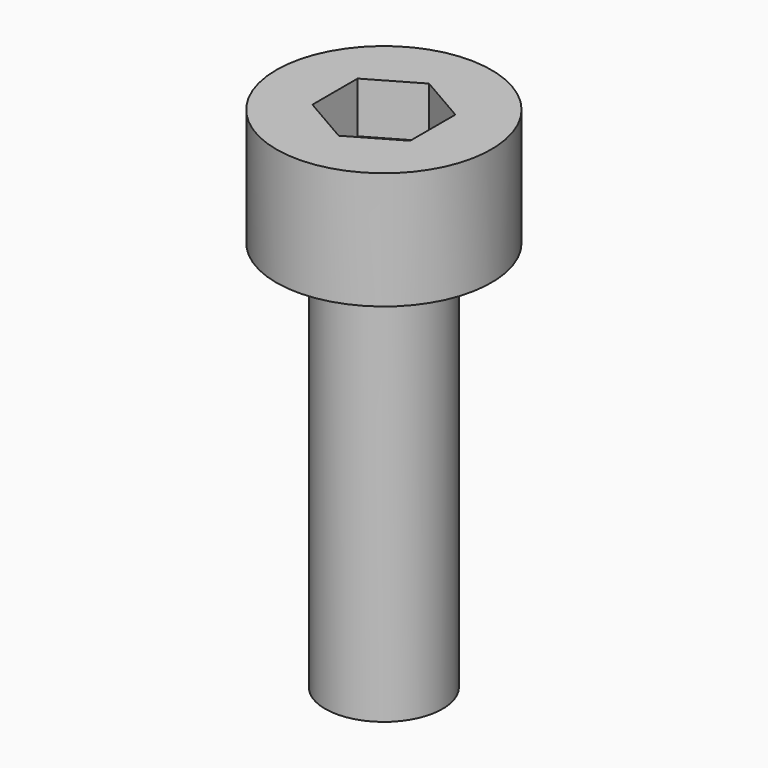
from build123d import *

# Parameters (mm, degrees)
F3_DEPTH = 1.3


with BuildPart() as f1:
    # F0 (on Front) → F1 (revolve)
    with BuildSketch(Plane.XZ):
        Polygon((-2.75, 0), (-1.5, 0), (-1.5, -10), (0, -10), (0, 0), (0, 3), (-2.75, 3), align=None)
    revolve(axis=Axis((0, 0, -5), (0, 0, 1)))

    # F2 (on face) → F3 (cut)
    with BuildSketch(Plane.XY.offset(3)):
        Polygon((-1.25, 0.721688), (-1.25, -0.721688), (0, -1.443376), (1.25, -0.721688), (1.25, 0.721688), (0, 1.443376), align=None)
    extrude(amount=-F3_DEPTH, mode=Mode.SUBTRACT)


solid = f1.part
